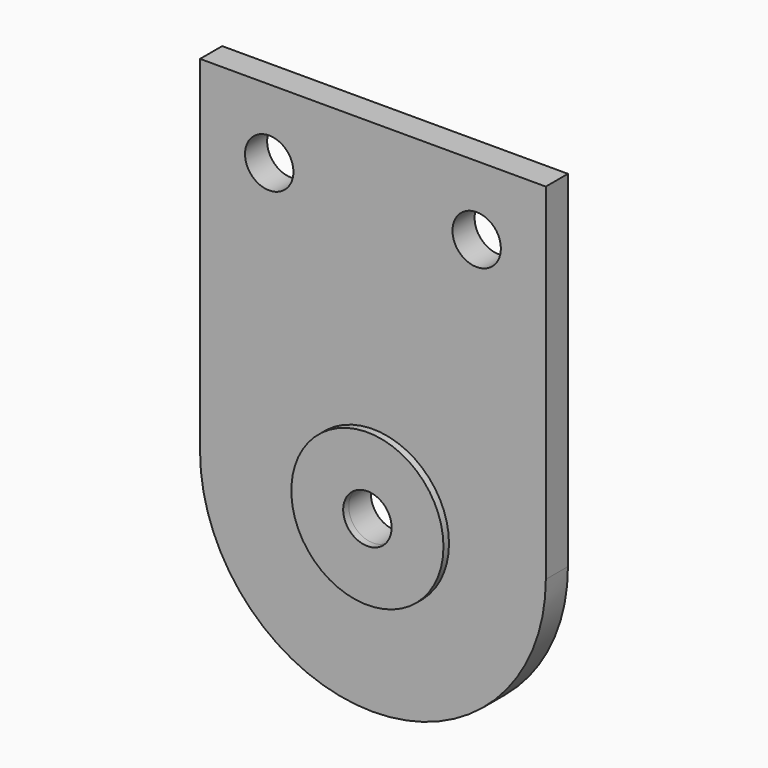
from build123d import *

# Parameters (mm, degrees)
F0_R     = 1.75
F1_DEPTH = 2
F2_R     = 5.5
F2_R_2   = 1.75
F3_DEPTH = 0.5


with BuildPart() as f1:
    # F0 (on Front) → F1 (new body)
    with BuildSketch(Plane.XZ):
        with BuildLine():
            Line((12.5, 25), (-12.5, 25))
            Line((-12.5, 25), (-12.5, 0))
            ThreePointArc((-12.5, 0), (0, 12.5), (12.5, 0))
            Line((12.5, 0), (12.5, 25))
        make_face()
        with Locations((-7.5, 20)):
            Circle(F0_R, mode=Mode.SUBTRACT)
        with Locations((7.5, 20)):
            Circle(F0_R, mode=Mode.SUBTRACT)
        with BuildLine():
            ThreePointArc((12.5, 0), (0, 12.5), (-12.5, 0))
            Line((-12.5, 0), (-1.75, 0))
            ThreePointArc((-1.75, 0), (0, 1.75), (1.75, 0))
            Line((1.75, 0), (12.5, 0))
        make_face()
        with BuildLine():
            Line((-1.75, 0), (-12.5, 0))
            ThreePointArc((-12.5, 0), (0, -12.5), (12.5, 0))
            Line((12.5, 0), (1.75, 0))
            ThreePointArc((1.75, 0), (0, -1.75), (-1.75, 0))
        make_face()
    extrude(amount=F1_DEPTH)

    # F2 (on face) → F3 (join)
    with BuildSketch(Plane.XZ.offset(2)):
        Circle(F2_R)
        Circle(F2_R_2, mode=Mode.SUBTRACT)
    extrude(amount=F3_DEPTH)


solid = f1.part
